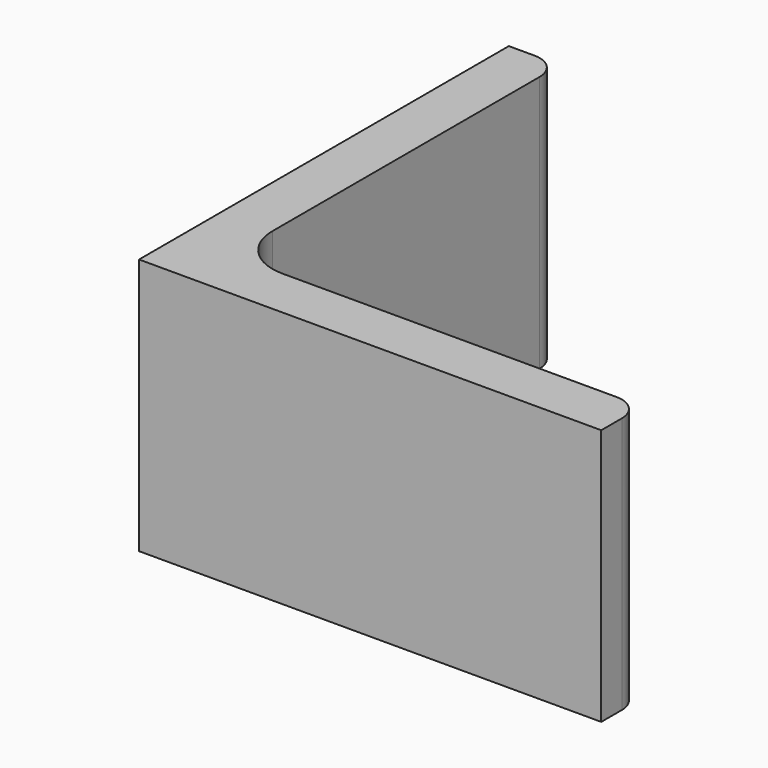
from build123d import *

# Parameters (mm, degrees)
EXTRUDE_DEPTH = 50


with BuildPart() as part:
    # Sketch → Extrude (new body)
    with BuildSketch(Plane.XY):
        with BuildLine():
            Line((0, 0), (90, 0))
            Line((90, 0), (90, 5))
            ThreePointArc((90, 5), (88.535534, 8.535534), (85, 10))
            Line((85, 10), (20, 10))
            ThreePointArc((10, 20), (12.928932, 12.928932), (20, 10))
            Line((10, 85), (10, 20))
            ThreePointArc((10, 85), (8.535534, 88.535534), (5, 90))
            Line((0, 90), (5, 90))
            Line((0, 0), (0, 90))
        make_face()
    extrude(amount=EXTRUDE_DEPTH)


solid = part.part
